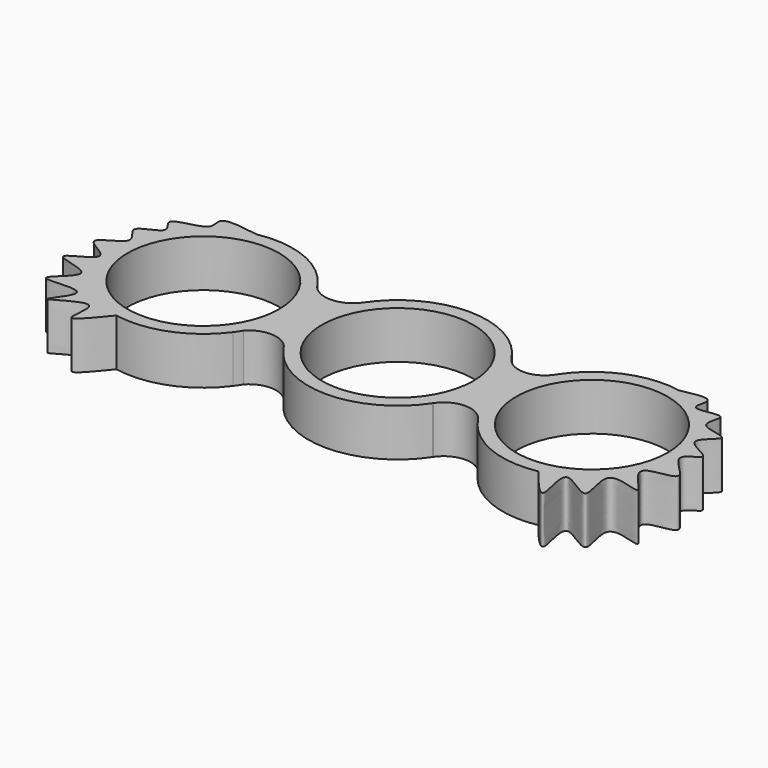
from build123d import *

# Parameters (mm, degrees)
F0_R     = 11.2
F1_DEPTH = 7


with BuildPart() as f1:
    # F0 (on Top) → F1 (new body)
    with BuildSketch(Plane.XY):
        with BuildLine():
            ThreePointArc((-17.3615851536, -6.7517051516), (-14.0734166579, -5.4657486659), (-11.0286363325, -7.2532186404))
            ThreePointArc((-11.0286363325, -7.2532186404), (-11.0177870265, -7.2696883729), (-11.0069131253, -7.286141877))
            ThreePointArc((-11.0069131253, -7.286141877), (0, -13.2), (11.0069131253, -7.286141877))
            ThreePointArc((11.0069131253, -7.286141877), (11.0313637436, -7.2484689333), (11.056238252, -7.2110745187))
            ThreePointArc((11.056238252, -7.2110745187), (14.2880538511, -5.4560399654), (17.577049901, -7.101422393))
            ThreePointArc((17.577049901, -7.101422393), (23.4749989569, -12.1202003482), (31.172824039, -12.9672093416))
            add(Edge.make_bspline(
                [(31.172824039, 12.9669730139), (33.1472569215, 13.3750788385), (36.5270989335, 14.073676002), (34.0848793574, 9.6236715606), (40.6014495711, 12.1170323813), (37.3700538834, 7.2436354995), (44.7876619614, 7.4782490341), (38.2175668627, 3.8634255474), (45.8759470709, 1.7941364893), (39.4991474585, 0.2632448007), (47.6835798981, -4.8674074816), (37.1259875275, -4.1627578238), (46.285675918, -11.5227665888), (36.0294996681, -6.549579837), (41.1332245893, -16.9576416249), (32.5090552202, -9.063873769), (36.558337537, -19.6554257582), (33.0102715582, -15.2491174024), (31.172824039, -12.9672093416)],
                knots=[0, 0, 0, 0, 0.0649858564, 0.1112430459, 0.1713514285, 0.2224337514, 0.2831812516, 0.3395169946, 0.4016118326, 0.4519536883, 0.5201081995, 0.5858631477, 0.6550585148, 0.7216477508, 0.7910850665, 0.8588050055, 0.9268789267, 1, 1, 1, 1], degree=3))
            ThreePointArc((31.172824039, 12.9669730139), (23.5764561109, 12.1632349987), (17.6972756256, 7.286141877))
            ThreePointArc((17.6972756256, 7.286141877), (17.6045762093, 7.1343587219), (17.5049948359, 6.9869991005))
            ThreePointArc((17.5049948359, 6.9869991005), (14.3520622642, 5.3585360814), (11.1991567422, 6.9870514714))
            ThreePointArc((11.1991567422, 6.9870514714), (11.0995951789, 7.1343857343), (11.0069131253, 7.286141877))
            ThreePointArc((11.0069131253, 7.286141877), (0, 13.2), (-11.0069131253, 7.286141877))
            ThreePointArc((-11.0069131253, 7.286141877), (-14.1999351169, 5.5837106635), (-17.5229477255, 7.015928761))
            ThreePointArc((-17.5229477255, 7.015928761), (-17.8231004563, 7.4054633276), (-18.0753505093, 7.8275992669))
            ThreePointArc((-18.0753505093, 7.8275992669), (-23.8822345778, 12.2878971454), (-31.172824039, 12.9672093416))
            add(Edge.make_bspline(
                [(-31.172824039, 12.9672093416), (-33.668575774, 13.3574203897), (-37.6676673096, 13.9826787749), (-35.4440669632, 10.2298395243), (-42.8769013579, 9.9097577915), (-38.5103852227, 6.7581183317), (-44.9501602051, 5.6031411678), (-39.6518743706, 2.2228702384), (-47.6192886432, 0.0861583281), (-38.9533813355, -2.6301808201), (-48.7166130261, -5.7042698906), (-37.6086827751, -6.3758604791), (-46.8917982625, -12.1629015399), (-35.2931938629, -9.439911342), (-42.7106434868, -17.1619178036), (-33.5389820975, -10.2505720078), (-36.1052342818, -19.0179223669), (-32.9104213317, -15.098611036), (-31.172824039, -12.9669730139)],
                knots=[0, 0, 0, 0, 0.07319349, 0.117282285, 0.1849017492, 0.2313285492, 0.2900068012, 0.3435362494, 0.4064131142, 0.4684070228, 0.532639048, 0.60086565, 0.6653978355, 0.73638448, 0.7977038863, 0.8680089861, 0.9282126272, 1, 1, 1, 1], degree=3))
            ThreePointArc((-31.172824039, -12.9669730139), (-23.8822345778, -12.2876608177), (-18.0753505093, -7.8273629392))
            ThreePointArc((-18.0753505093, -7.8273629392), (-17.7616737298, -7.2608642642), (-17.3615851536, -6.7517051516))
        make_face()
        with Locations((-28.7041105302, 0.0001181638)):
            Circle(F0_R, mode=Mode.SUBTRACT)
        Circle(F0_R, mode=Mode.SUBTRACT)
        with Locations((28.7041105302, -0.0001181638)):
            Circle(F0_R, mode=Mode.SUBTRACT)
        with BuildLine():
            ThreePointArc((-18.0753505093, -7.8273629392), (-17.7053103491, -7.2982648473), (-17.3615851536, -6.7517051516))
            ThreePointArc((-17.3615851536, -6.7517051516), (-17.7616737298, -7.2608642642), (-18.0753505093, -7.8273629392))
        make_face()
        with BuildLine():
            ThreePointArc((11.056238252, -7.2110745187), (11.0313637436, -7.2484689333), (11.0069131253, -7.286141877))
            ThreePointArc((11.0069131253, -7.286141877), (11.0316395405, -7.2486501535), (11.056238252, -7.2110745187))
        make_face()
        with BuildLine():
            ThreePointArc((-17.5229477255, 7.015928761), (-17.7916000185, 7.4269017431), (-18.0753505093, 7.8275992669))
            ThreePointArc((-18.0753505093, 7.8275992669), (-17.8231004563, 7.4054633276), (-17.5229477255, 7.015928761))
        make_face()
        with BuildLine():
            ThreePointArc((17.5049948359, 6.9869991005), (17.6045762093, 7.1343587219), (17.6972756256, 7.286141877))
            ThreePointArc((17.6972756256, 7.286141877), (17.6001278167, 7.1372180269), (17.5049948359, 6.9869991005))
        make_face()
        with BuildLine():
            ThreePointArc((11.1991567422, 6.9870514714), (11.1040419896, 7.1372439703), (11.0069131253, 7.286141877))
            ThreePointArc((11.0069131253, 7.286141877), (11.0995951789, 7.1343857343), (11.1991567422, 6.9870514714))
        make_face()
    extrude(amount=F1_DEPTH)


solid = f1.part
